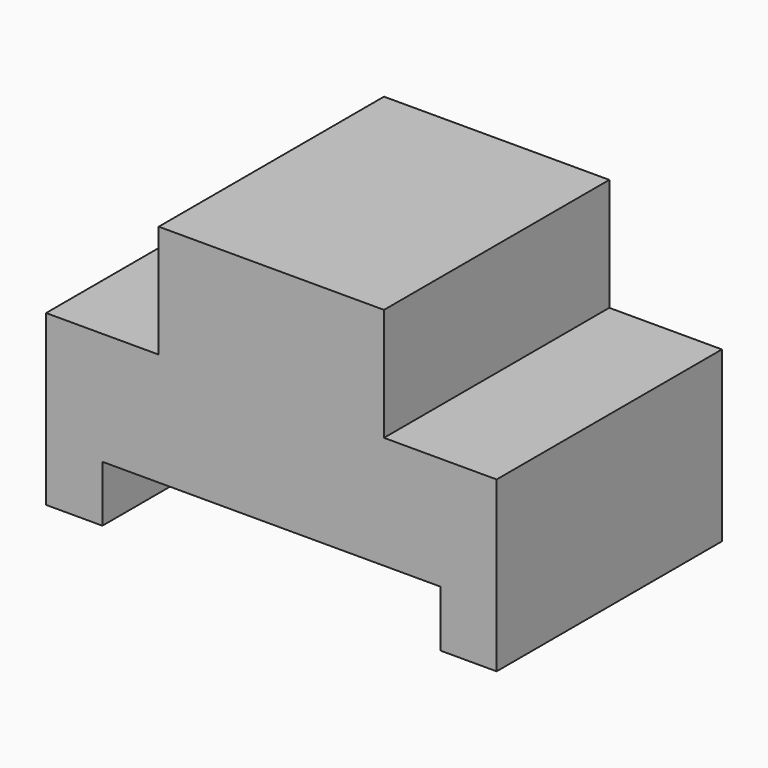
from build123d import *

# Parameters (mm, degrees)
F0_W     = 101.6
F0_H     = 63.5
F1_DEPTH = 63.5
F2_W     = 76.2
F2_H     = 12.7
F3_DEPTH = 63.5
F4_W     = 25.4
F4_H     = 25.4
F5_DEPTH = 63.5
F6_W     = 25.4
F6_H     = 25.4
F7_DEPTH = 63.5


with BuildPart() as f1:
    # F0 (on Front) → F1 (new body)
    with BuildSketch(Plane.XZ):
        with Locations((50.8, -31.75)):
            Rectangle(F0_W, F0_H)
    extrude(amount=F1_DEPTH)

    # F2 (on face) → F3 (cut)
    with BuildSketch(Plane.XZ.offset(63.5)):
        with Locations((50.8, -57.15)):
            Rectangle(F2_W, F2_H)
    extrude(amount=-F3_DEPTH, mode=Mode.SUBTRACT)

    # F4 (on face) → F5 (cut)
    with BuildSketch(Plane.XZ.offset(63.5)):
        with Locations((88.9, -12.7)):
            Rectangle(F4_W, F4_H)
    extrude(amount=-F5_DEPTH, mode=Mode.SUBTRACT)

    # F6 (on face) → F7 (cut)
    with BuildSketch(Plane.XZ.offset(63.5)):
        with Locations((12.7, -12.7)):
            Rectangle(F6_W, F6_H)
    extrude(amount=-F7_DEPTH, mode=Mode.SUBTRACT)


solid = f1.part
